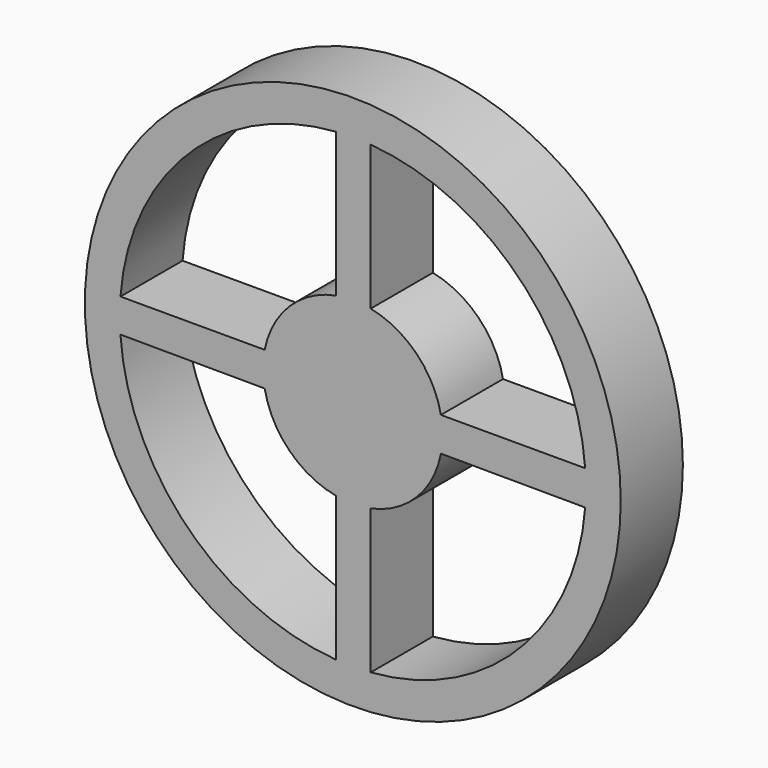
from build123d import *

# Parameters (mm, degrees)
F0_R     = 10.954504
F1_DEPTH = 3.175


with BuildPart() as f1:
    # F0 (on Front) → F1 (new body)
    with BuildSketch(Plane.XZ):
        Circle(F0_R)
        with BuildLine():
            ThreePointArc((9.499057, 0.702522), (9.518512, 0.3515), (9.525, 0))
            ThreePointArc((9.525, 0), (9.518348, -0.355918), (9.498401, -0.711339))
            ThreePointArc((9.498401, -0.711339), (6.742333, -6.728043), (0.73149, -9.49687))
            ThreePointArc((0.73149, -9.49687), (0.026314, -9.524964), (-0.679006, -9.500767))
            ThreePointArc((-0.679006, -9.500767), (-6.739803, -6.730578), (-9.501688, -0.665992))
            ThreePointArc((-9.501688, -0.665992), (-9.524982, 0.018312), (-9.499057, 0.702522))
            ThreePointArc((-9.499057, 0.702522), (-6.726851, 6.743523), (-0.679006, 9.500767))
            ThreePointArc((-0.679006, 9.500767), (0.026314, 9.524964), (0.73149, 9.49687))
            ThreePointArc((0.73149, 9.49687), (6.745455, 6.724913), (9.499057, 0.702522))
        make_face(mode=Mode.SUBTRACT)
        with BuildLine():
            ThreePointArc((3.668611, 0), (3.651599, 0.352898), (3.600718, 0.702522))
            ThreePointArc((3.600718, 0.702522), (2.604522, 2.583636), (0.73149, 3.594945))
            ThreePointArc((0.73149, 3.594945), (0.026741, 3.668514), (-0.679006, 3.605227))
            ThreePointArc((-0.679006, 3.605227), (-2.58562, 2.602552), (-3.600718, 0.702522))
            ThreePointArc((-3.600718, 0.702522), (-3.668605, 0.007053), (-3.603393, -0.688672))
            ThreePointArc((-3.603393, -0.688672), (-2.590619, -2.597576), (-0.679006, -3.605227))
            ThreePointArc((-0.679006, -3.605227), (0.026741, -3.668514), (0.73149, -3.594945))
            ThreePointArc((0.73149, -3.594945), (2.609484, -2.578624), (3.603393, -0.688672))
            ThreePointArc((3.603393, -0.688672), (3.65227, -0.345877), (3.668611, 0))
        make_face()
        with BuildLine():
            ThreePointArc((-0.679006, -9.500767), (0.026314, -9.524964), (0.73149, -9.49687))
            Line((0.73149, -9.49687), (0.73149, -3.594945))
            ThreePointArc((0.73149, -3.594945), (0.026741, -3.668514), (-0.679006, -3.605227))
            Line((-0.679006, -3.605227), (-0.679006, -9.500767))
        make_face()
        with BuildLine():
            Line((-3.600718, 0.702522), (-9.499057, 0.702522))
            ThreePointArc((-9.499057, 0.702522), (-9.524982, 0.018312), (-9.501688, -0.665992))
            Line((-9.501688, -0.665992), (-3.603393, -0.688672))
            ThreePointArc((-3.603393, -0.688672), (-3.668605, 0.007053), (-3.600718, 0.702522))
        make_face()
        with BuildLine():
            ThreePointArc((9.498401, -0.711339), (9.518348, -0.355918), (9.525, 0))
            ThreePointArc((9.525, 0), (9.518512, 0.3515), (9.499057, 0.702522))
            Line((9.499057, 0.702522), (3.600718, 0.702522))
            ThreePointArc((3.600718, 0.702522), (3.651599, 0.352898), (3.668611, 0))
            ThreePointArc((3.668611, 0), (3.65227, -0.345877), (3.603393, -0.688672))
            Line((3.603393, -0.688672), (9.498401, -0.711339))
        make_face()
        with BuildLine():
            Line((0.73149, 3.594945), (0.73149, 9.49687))
            ThreePointArc((0.73149, 9.49687), (0.026314, 9.524964), (-0.679006, 9.500767))
            Line((-0.679006, 9.500767), (-0.679006, 3.605227))
            ThreePointArc((-0.679006, 3.605227), (0.026741, 3.668514), (0.73149, 3.594945))
        make_face()
    extrude(amount=F1_DEPTH)


solid = f1.part
